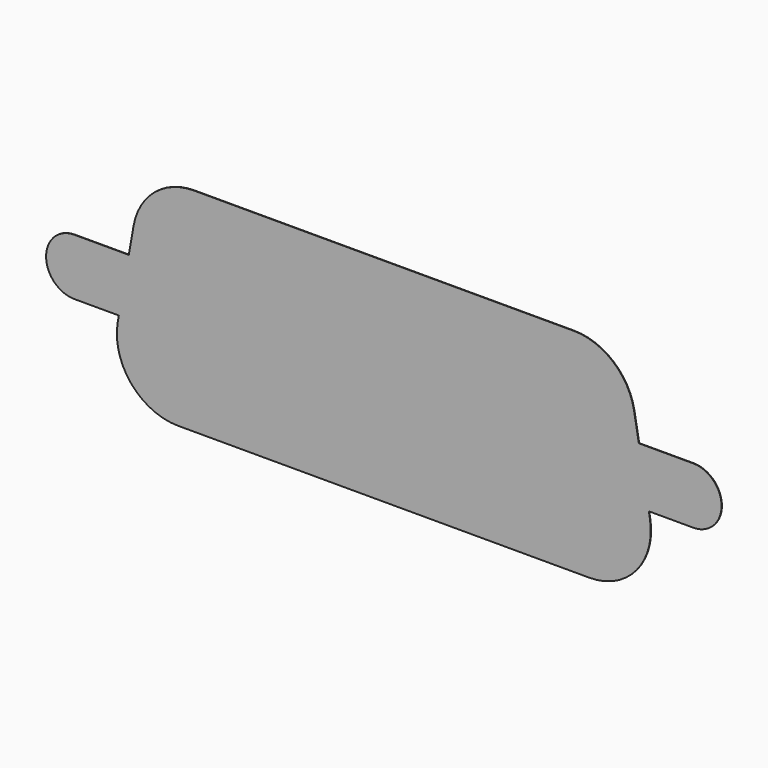
from build123d import *

# Parameters (mm, degrees)
F1_DEPTH = 0.0254


with BuildPart() as f1:
    # F0 (on Front) → F1 (new body)
    with BuildSketch(Plane.XZ):
        with BuildLine():
            ThreePointArc((6.438954, 11.43), (4.316469, 10.657479), (3.187119, 8.701386))
            Line((3.187119, 8.701386), (2.929261, 7.239))
            Line((2.929261, 7.239), (0, 7.239))
            ThreePointArc((0, 7.239), (-1.524, 5.715), (0, 4.191))
            Line((0, 4.191), (2.391816, 4.191))
            Line((2.391816, 4.191), (2.336165, 3.875386))
            ThreePointArc((2.336165, 3.875386), (3.058521, 1.179515), (5.588, 0))
            Line((5.588, 0), (27.7368, 0))
            ThreePointArc((27.7368, 0), (30.266279, 1.179515), (30.988635, 3.875386))
            Line((30.988635, 3.875386), (30.932984, 4.191))
            Line((30.932984, 4.191), (33.3248, 4.191))
            ThreePointArc((33.3248, 4.191), (34.8488, 5.715), (33.3248, 7.239))
            Line((33.3248, 7.239), (30.395539, 7.239))
            Line((30.395539, 7.239), (30.137681, 8.701386))
            ThreePointArc((30.137681, 8.701386), (29.008331, 10.657479), (26.885846, 11.43))
            Line((26.885846, 11.43), (6.438954, 11.43))
        make_face()
    extrude(amount=F1_DEPTH)


solid = f1.part
